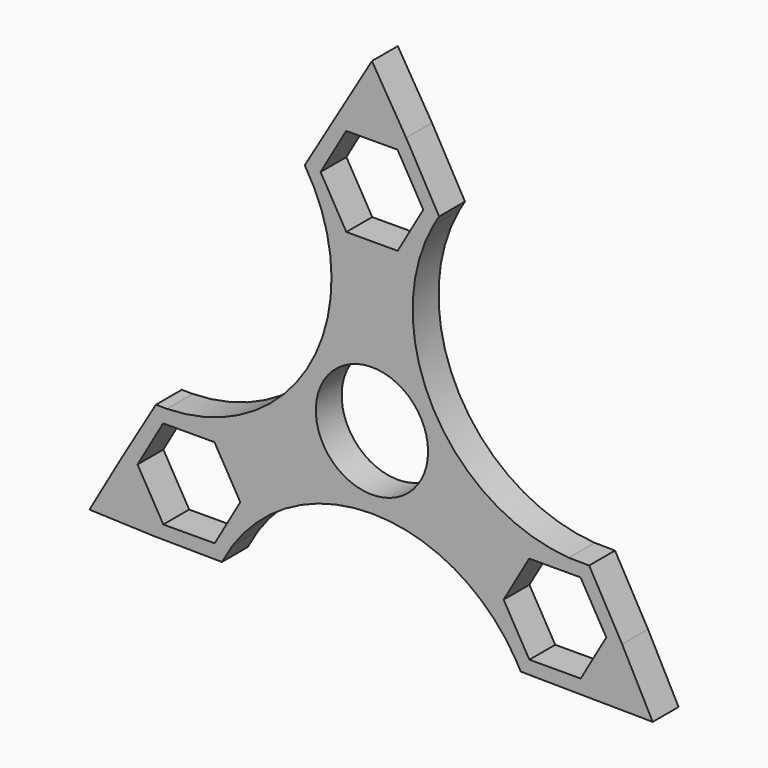
from build123d import *

# Parameters (mm, degrees)
F0_R     = 11.0236
F1_DEPTH = 6.35


with BuildPart() as f1:
    # F0 (on Front) → F1 (new body)
    with BuildSketch(Plane.XZ):
        with BuildLine():
            ThreePointArc((-27.428572, -28.799269), (-15.536583, -18.126418), (-0.025541, -14.287577))
            ThreePointArc((-0.025541, -14.287577), (16.098209, -18.525276), (28.096208, -30.10031))
            Line((28.096208, -30.10031), (22.753581, -20.617389))
            Line((22.753581, -20.617389), (29.472685, -9.25751))
            Line((29.472685, -9.25751), (38.679014, -9.354456))
            ThreePointArc((38.679014, -9.354456), (12.043181, 7.748798), (12.031843, 39.403004))
            Line((12.031843, 39.403004), (6.478392, 30.013874))
            Line((6.478392, 30.013874), (-6.719104, 30.152849))
            Line((-6.719104, 30.152849), (-11.298341, 38.280788))
            ThreePointArc((-11.298341, 38.280788), (-12.766047, 6.573739), (-40.264051, -9.280313))
            Line((-40.264051, -9.280313), (-29.231973, -9.396485))
            Line((-29.231973, -9.396485), (-22.753581, -20.895339))
            Line((-22.753581, -20.895339), (-27.428572, -28.799269))
        make_face()
        with BuildLine():
            ThreePointArc((-0.025541, -14.287477), (-10.093754, 10.111814), (14.2875, 0))
            ThreePointArc((14.2875, 0), (10.093754, -10.111814), (-0.025541, -14.287477))
        make_face(mode=Mode.SUBTRACT)
        with BuildLine():
            ThreePointArc((29.231973, -32.116243), (28.681755, -31.098324), (28.096208, -30.10031))
            Line((28.096208, -30.10031), (29.231973, -32.116243))
        make_face()
        with BuildLine():
            Line((22.753581, -20.617389), (28.096208, -30.10031))
            ThreePointArc((28.096208, -30.10031), (28.681755, -31.098324), (29.231973, -32.116243))
            Line((29.231973, -32.116243), (42.429468, -32.255218))
            Line((42.429468, -32.255218), (49.148572, -20.895339))
            Line((49.148572, -20.895339), (42.670181, -9.396485))
            ThreePointArc((42.670181, -9.396485), (40.673962, -9.435824), (38.679014, -9.354456))
            Line((38.679014, -9.354456), (29.472685, -9.25751))
            Line((29.472685, -9.25751), (22.753581, -20.617389))
        make_face()
        Polygon((30.92673, -29.505658), (25.861793, -20.779799), (30.88614, -12.030505), (40.975424, -12.00707), (46.040361, -20.732929), (41.016014, -29.482223), align=None, mode=Mode.SUBTRACT)
        with BuildLine():
            ThreePointArc((-29.472685, -32.255218), (-28.503211, -30.496142), (-27.428572, -28.799269))
            Line((-27.428572, -28.799269), (-22.753581, -20.895339))
            Line((-22.753581, -20.895339), (-29.231973, -9.396485))
            Line((-29.231973, -9.396485), (-40.264051, -9.280313))
            ThreePointArc((-40.264051, -9.280313), (-41.346946, -9.286648), (-42.429468, -9.25751))
            Line((-42.429468, -9.25751), (-49.148572, -20.617389))
            Line((-49.148572, -20.617389), (-42.670181, -32.116243))
            Line((-42.670181, -32.116243), (-29.472685, -32.255218))
        make_face()
        Polygon((-41.016014, -12.030505), (-30.92673, -12.00707), (-25.861793, -20.732929), (-30.88614, -29.482223), (-40.975424, -29.505658), (-46.040361, -20.779799), align=None, mode=Mode.SUBTRACT)
        with BuildLine():
            Line((-29.472685, -32.255218), (-27.428572, -28.799269))
            ThreePointArc((-27.428572, -28.799269), (-28.503211, -30.496142), (-29.472685, -32.255218))
        make_face()
        Polygon((49.148572, -20.895339), (42.429468, -32.255218), (55.150566, -32.389176), align=None)
        Polygon((-55.487948, -31.656647), (-42.670181, -32.116243), (-49.148572, -20.617389), align=None)
        with BuildLine():
            Line((42.670181, -9.396485), (38.679014, -9.354456))
            ThreePointArc((38.679014, -9.354456), (40.673962, -9.435824), (42.670181, -9.396485))
        make_face()
        with BuildLine():
            ThreePointArc((-42.429468, -9.25751), (-41.346946, -9.286648), (-40.264051, -9.280313))
            Line((-40.264051, -9.280313), (-42.429468, -9.25751))
        make_face()
        with BuildLine():
            ThreePointArc((13.197495, 41.373752), (12.597584, 40.398484), (12.031843, 39.403004))
            Line((12.031843, 39.403004), (13.197495, 41.373752))
        make_face()
        with BuildLine():
            Line((6.478392, 30.013874), (12.031843, 39.403004))
            ThreePointArc((12.031843, 39.403004), (12.597584, 40.398484), (13.197495, 41.373752))
            Line((13.197495, 41.373752), (6.719104, 52.872606))
            Line((6.719104, 52.872606), (-6.478392, 53.011582))
            Line((-6.478392, 53.011582), (-13.197495, 41.651703))
            ThreePointArc((-13.197495, 41.651703), (-12.198557, 39.994055), (-11.298341, 38.280788))
            Line((-11.298341, 38.280788), (-6.719104, 30.152849))
            Line((-6.719104, 30.152849), (6.478392, 30.013874))
        make_face()
        Polygon((-5.024347, 32.763434), (-10.089284, 41.489293), (-5.064937, 50.238587), (5.024347, 50.262022), (10.089284, 41.536162), (5.064937, 32.786869), align=None, mode=Mode.SUBTRACT)
        with BuildLine():
            Line((-13.197495, 41.651703), (-11.298341, 38.280788))
            ThreePointArc((-11.298341, 38.280788), (-12.198557, 39.994055), (-13.197495, 41.651703))
        make_face()
        Polygon((-6.478392, 53.011582), (6.719104, 52.872606), (0, 63.964492), align=None)
        with BuildLine():
            ThreePointArc((-0.025541, -14.287477), (10.093754, -10.111814), (14.2875, 0))
            ThreePointArc((14.2875, 0), (-10.093754, 10.111814), (-0.025541, -14.287477))
        make_face()
        Circle(F0_R, mode=Mode.SUBTRACT)
    extrude(amount=F1_DEPTH)


solid = f1.part
